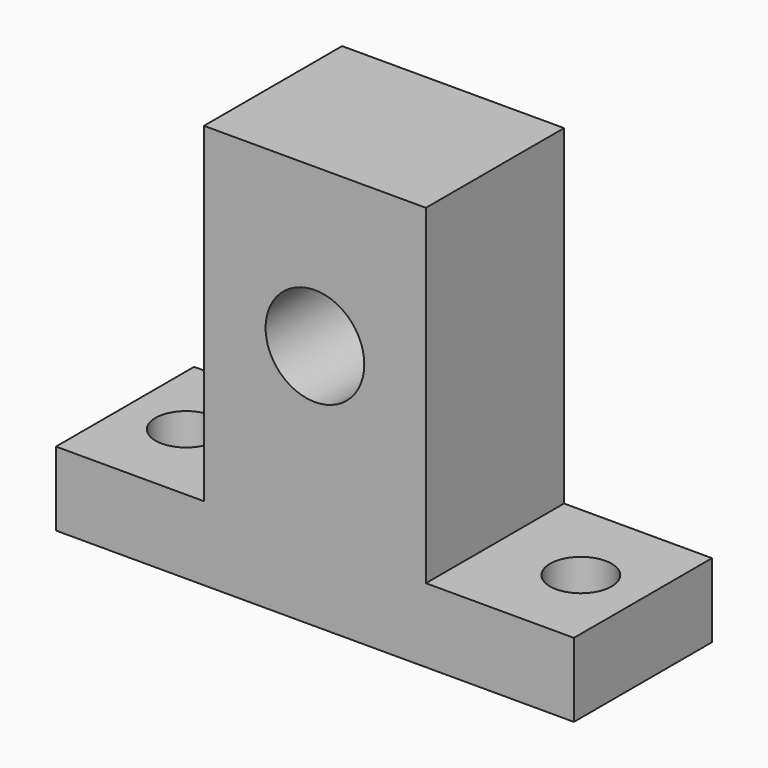
from build123d import *

# Parameters (mm, degrees)
F0_W     = 12
F0_H     = 6
F0_R     = 4
F1_DEPTH = 14
F3_D     = 5
F3_DEPTH = 6
F3_TIP   = 1.5021515476


with BuildPart() as f1:
    # F0 (on Front) → F1 (new body)
    with BuildSketch(Plane.XZ):
        with Locations((-15, 3)):
            Rectangle(F0_W, F0_H)
        Polygon((-9, 0), (0, 0), (9, 0), (9, 6), (9, 32.8), (0, 32.8), (-9, 32.8), (-9, 6), align=None)
        with Locations((0, 20)):
            Circle(F0_R, mode=Mode.SUBTRACT)
        with Locations((15, 3)):
            Rectangle(F0_W, F0_H)
    extrude(amount=F1_DEPTH)

    # F3
    with Locations(Plane(origin=(0, 0, 0), x_dir=(1, 0, 0), z_dir=(0, 0, -1))):
        with Locations((-16.037677303, 7), (15.962322697, 7)):
            Hole(F3_D / 2, depth=F3_DEPTH)
            with Locations((0, 0, -(F3_DEPTH + F3_TIP / 2))):  # 118° drill point
                Cone(0, F3_D / 2, F3_TIP, mode=Mode.SUBTRACT)


solid = f1.part
